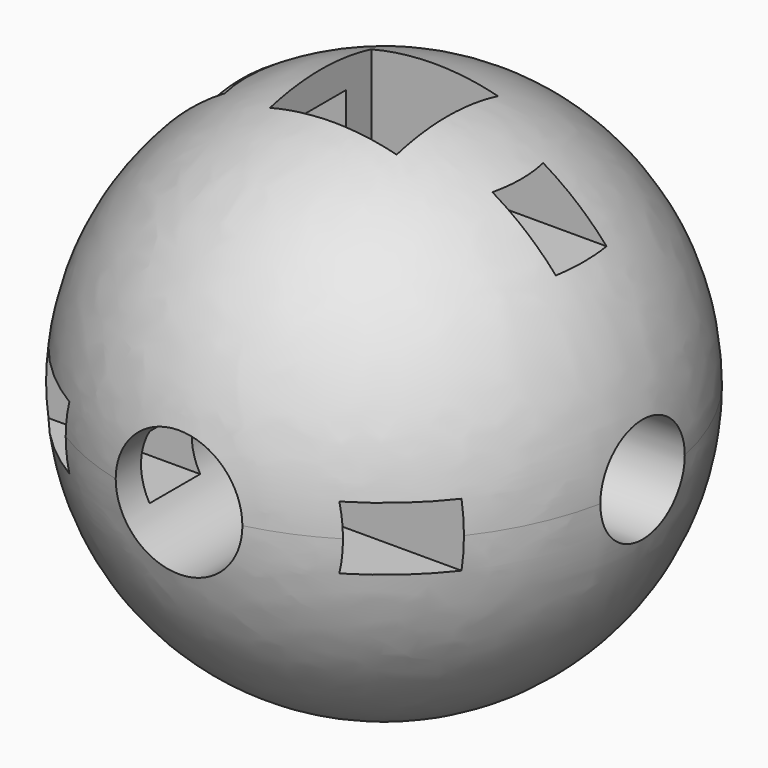
from build123d import *

# Parameters (mm, degrees)
F3_R      = 6
F4_DEPTH  = 50.001
F6_W      = 12
F6_H      = 12
F7_DEPTH  = 50.001
F9_R      = 5
F9_W      = 6
F9_H      = 6
F9_H_2    = 5
F10_DEPTH = 50.001


with BuildPart() as f1:
    # F0 (on Front) → F1 (revolve)
    with BuildSketch(Plane.XZ):
        with BuildLine():
            ThreePointArc((0, -25), (17.67767, -17.67767), (25, 0))
            ThreePointArc((25, 0), (17.67767, 17.67767), (0, 25))
            Line((0, 25), (0, -25))
        make_face()
    revolve(axis=Axis((0, 0, 0), (0, 0, -1)))

    # F3 (on offset) → F4 (cut, through all)
    with BuildSketch(Plane.XZ.offset(25)):
        Circle(F3_R)
    extrude(amount=-F4_DEPTH, mode=Mode.SUBTRACT)

    # F6 (on offset) → F7 (cut, through all)
    with BuildSketch(Plane.XY.offset(25)):
        Rectangle(F6_W, F6_H)
    extrude(amount=-F7_DEPTH, mode=Mode.SUBTRACT)

    # F9 (on offset) → F10 (cut, through all)
    with BuildSketch(Plane.YZ.offset(25)):
        Circle(F9_R)
        with Locations((-18.271133, 0)):
            Rectangle(F9_W, F9_H)
        with Locations((0, 18.837681)):
            Rectangle(F9_W, F9_H_2)
    extrude(amount=-F10_DEPTH, mode=Mode.SUBTRACT)


solid = f1.part
